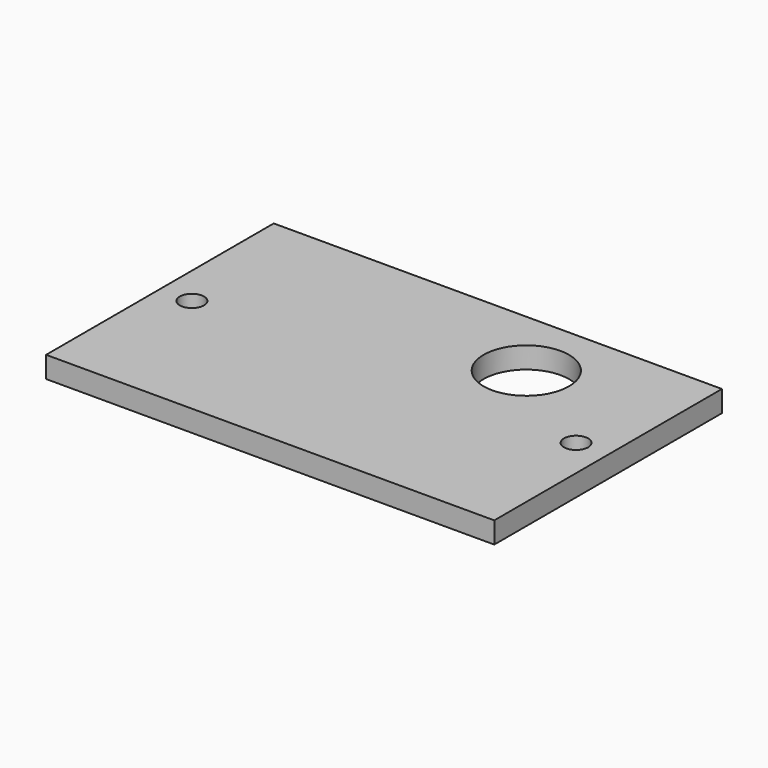
from build123d import *

# Parameters (mm, degrees)
SKETCH_W   = 63
SKETCH_H   = 40
SKETCH_R   = 1.7
SKETCH_R_2 = 6
PAD_DEPTH  = 3


with BuildPart() as part:
    # Sketch → Pad (new body)
    with BuildSketch(Plane.XY):
        with Locations((0, 20)):
            Rectangle(SKETCH_W, SKETCH_H)
        with Locations((-27, 20)):
            Circle(SKETCH_R, mode=Mode.SUBTRACT)
        with Locations((27, 20)):
            Circle(SKETCH_R, mode=Mode.SUBTRACT)
        with Locations((12, 30)):
            Circle(SKETCH_R_2, mode=Mode.SUBTRACT)
    extrude(amount=PAD_DEPTH)


solid = part.part
